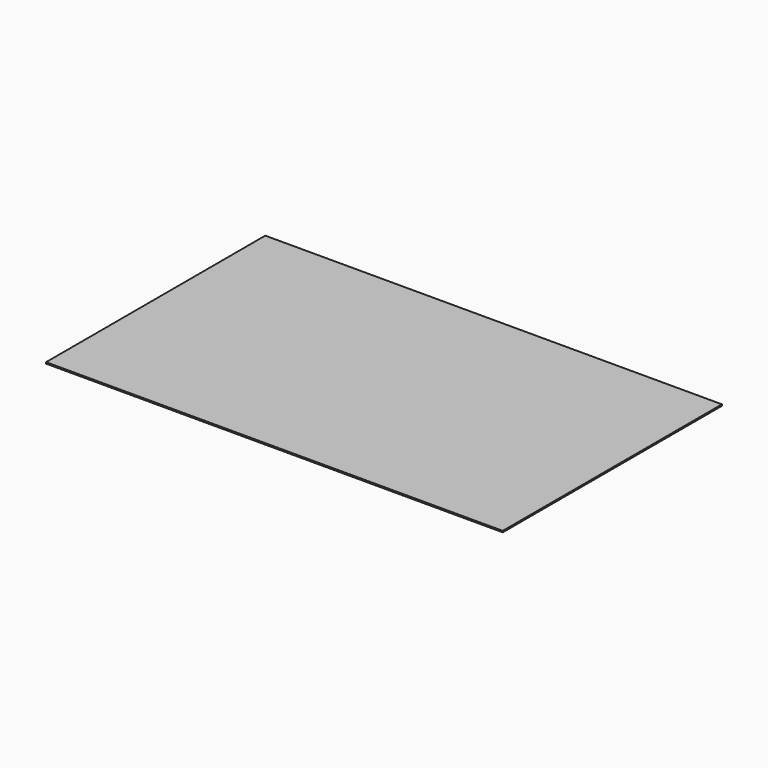
from build123d import *

# Parameters (mm, degrees)
F0_W     = 1000
F0_H     = 600
F1_DEPTH = 3


with BuildPart() as f1:
    # F0 (on Top) → F1 (new body)
    with BuildSketch(Plane.XY):
        Rectangle(F0_W, F0_H)
        Rectangle(F0_W, F0_H)
    extrude(amount=-F1_DEPTH)


solid = f1.part
